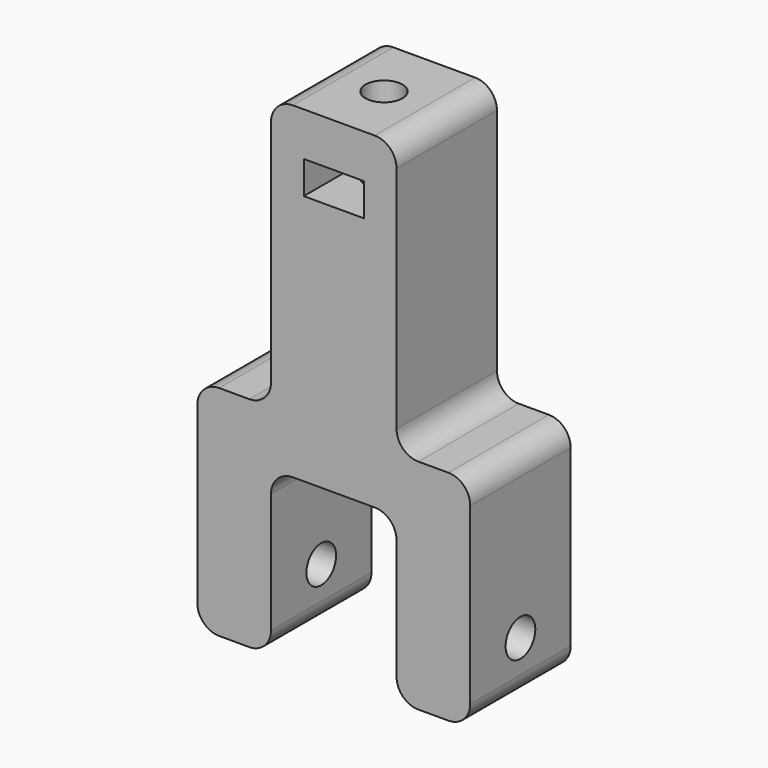
from build123d import *

# Parameters (mm, degrees)
F0_W     = 6.75
F0_H     = 11.5
F0_W_2   = 11.5
F1_DEPTH = 5
F2_DEPTH = 20
F3_DEPTH = 25
F4_R     = 1.7
F5_DEPTH = 25.001
F6_W     = 5.5
F6_H     = 3
F7_DEPTH = 11.501
F8_R     = 1.7
F9_DEPTH = 45.001
F10_R    = 2


with BuildPart() as f1:
    # F0 (on Top) → F1 (new body)
    with BuildSketch(Plane.XY):
        with Locations((-9.125, 0)):
            Rectangle(F0_W, F0_H)
        with Locations((9.125, 0)):
            Rectangle(F0_W, F0_H)
        Rectangle(F0_W_2, F0_H)
    extrude(amount=-F1_DEPTH)

    # F0 (on Top) → F2 (join)
    with BuildSketch(Plane.XY):
        with Locations((9.125, 0)):
            Rectangle(F0_W, F0_H)
        with Locations((-9.125, 0)):
            Rectangle(F0_W, F0_H)
    extrude(amount=-F2_DEPTH)

    # F0 (on Top) → F3 (join)
    with BuildSketch(Plane.XY):
        Rectangle(F0_W_2, F0_H)
    extrude(amount=F3_DEPTH)

    # F4 (on face) → F5 (cut, through all)
    with BuildSketch(Plane(origin=(-12.5, 0, 0), x_dir=(0, -1, 0), z_dir=(-1, 0, 0))):
        with Locations((0, -15)):
            Circle(F4_R)
    extrude(amount=-F5_DEPTH, mode=Mode.SUBTRACT)

    # F6 (on face) → F7 (cut, through all)
    with BuildSketch(Plane(origin=(0, 5.75, 0), x_dir=(-1, 0, 0), z_dir=(0, 1, 0))):
        with Locations((0, 19.5)):
            Rectangle(F6_W, F6_H)
    extrude(amount=-F7_DEPTH, mode=Mode.SUBTRACT)

    # F8 (on face) → F9 (cut, through all)
    with BuildSketch(Plane.XY.offset(25)):
        Circle(F8_R)
    extrude(amount=-F9_DEPTH, mode=Mode.SUBTRACT)

    # F10
    f10_edges = [f1.edges().sort_by_distance(p)[0] for p in [
        (-5.75, 0, -20),
        (-12.5, 0, -20),
        (-5.75, 0, -5),
        (5.75, 0, -5),
        (5.75, 0, -20),
        (12.5, 0, -20),
        (12.5, 0, 0),
        (-12.5, 0, 0),
        (-5.75, 0, 0),
        (-5.75, 0, 25),
        (5.75, 0, 25),
        (5.75, 0, 0),
    ]]
    fillet(f10_edges, radius=F10_R)


solid = f1.part
